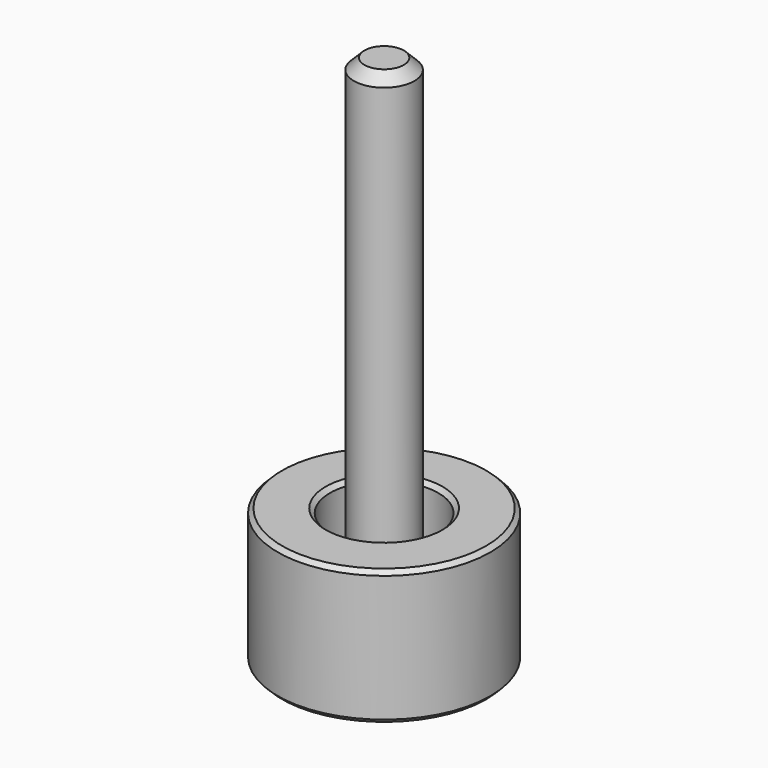
from build123d import *

# Parameters (mm, degrees)
F0_R     = 1.425
F6_DEPTH = 25
F1_SIZE  = 0.5
F2_SIZE  = 0.5
F3_R     = 5
F3_R_2   = 2.55
F4_DEPTH = 6.35
F5_SIZE  = 0.2


with BuildPart() as f6:
    # F0 (on Top) → F6 (new body)
    with BuildSketch(Plane.XY):
        Circle(F0_R)
    extrude(amount=F6_DEPTH)

    # F1
    f1_edges = [f6.edges().sort_by_distance(p)[0] for p in [
        (-1.425, 0, 25),
    ]]
    chamfer(f1_edges, length=F1_SIZE)

    # F2
    f2_edges = [f6.edges().sort_by_distance(p)[0] for p in [
        (-1.425, 0, 0),
    ]]
    chamfer(f2_edges, length=F2_SIZE)


with BuildPart() as f4:
    # F3 (on Top) → F4 (new body)
    with BuildSketch(Plane.XY):
        Circle(F3_R)
        Circle(F3_R_2, mode=Mode.SUBTRACT)
    extrude(amount=F4_DEPTH)

    # F5
    f5_edges = [f4.edges().sort_by_distance(p)[0] for p in [
        (-2.55, 0, 6.35),
        (-5, 0, 6.35),
        (-5, 0, 0),
        (-2.55, 0, 0),
    ]]
    chamfer(f5_edges, length=F5_SIZE)


solid = Compound([f6.part, f4.part])
